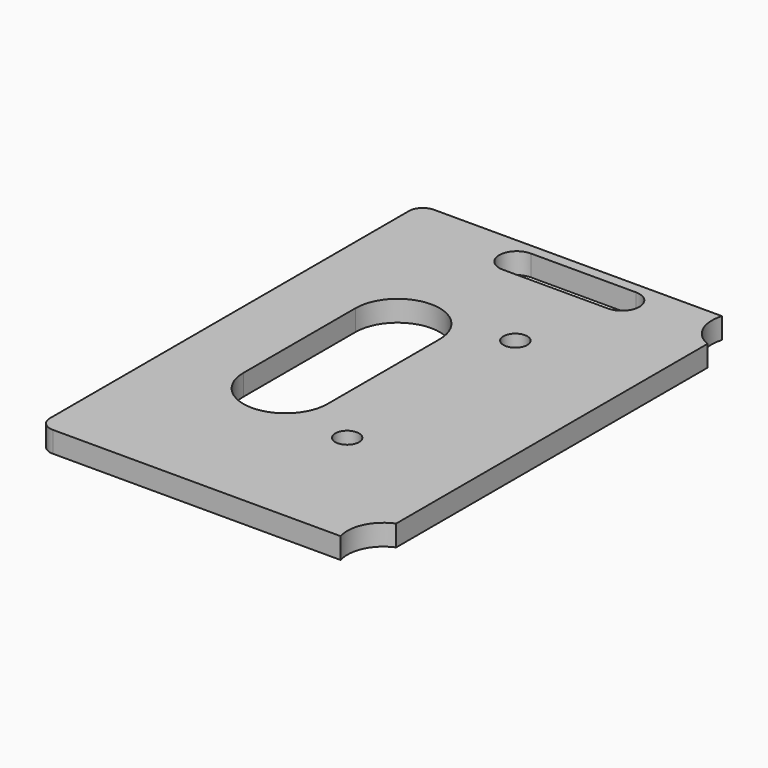
from build123d import *

# Parameters (mm, degrees)
SKETCH035_W     = 46
SKETCH035_H     = 68
PAD010_DEPTH    = 3
FILLET006_R     = 2
SKETCH036_R     = 1.7
POCKET028_DEPTH = 167.305595
POCKET035_DEPTH = 3.001
SKETCH062_R     = 5.15
POCKET043_DEPTH = 167.305595
POCKET044_DEPTH = 3.001


with BuildPart() as part:
    # Sketch035 (on Face1 of CopyMirrored) → Pad010 (new body)
    with BuildSketch(Plane(origin=(0, 0, 45), x_dir=(1, 0, 0), z_dir=(0, 0, -1))):
        with Locations((-21, 0)):
            Rectangle(SKETCH035_W, SKETCH035_H)
    extrude(amount=PAD010_DEPTH)

    # Fillet006
    fillet006_edges = [part.edges().sort_by_distance(p)[0] for p in [
        (-44, -34, 43.5),
        (-44, 34, 43.5),
    ]]
    fillet(fillet006_edges, radius=FILLET006_R)

    # Sketch036 (on Face5 of Fillet006) → Pocket028 (cut, through all)
    with BuildSketch(Plane(origin=(0, 0, 42), x_dir=(1, 0, 0), z_dir=(0, 0, -1))):
        with Locations((-15.2, 15)):
            Circle(SKETCH036_R)
    pocket028 = extrude(amount=-POCKET028_DEPTH, mode=Mode.SUBTRACT)

    # Sketch051 → Pocket035 (cut, through all)
    with BuildSketch(Plane.XY.offset(45)):
        with BuildLine():
            ThreePointArc((-27, 32.5), (-29.5, 30), (-27, 27.5))
            Line((-27, 27.5), (-12, 27.5))
            ThreePointArc((-12, 27.5), (-9.5, 30), (-12, 32.5))
            Line((-27, 32.5), (-12, 32.5))
        make_face()
    extrude(amount=-POCKET035_DEPTH, mode=Mode.SUBTRACT)

    # Sketch062 (on Face5 of Pocket035) → Pocket043 (cut, through all)
    with BuildSketch(Plane(origin=(0, 0, 42), x_dir=(1, 0, 0), z_dir=(0, 0, -1))):
        with Locations((4, 32.5)):
            Circle(SKETCH062_R)
    pocket043 = extrude(amount=-POCKET043_DEPTH, mode=Mode.SUBTRACT)

    # Mirrored006: Pocket043, Pocket028 across XZ
    add(pocket043.mirror(Plane.XZ), mode=Mode.SUBTRACT)
    add(pocket028.mirror(Plane.XZ), mode=Mode.SUBTRACT)

    # Sketch063 (on Face4 of Mirrored006) → Pocket044 (cut, through all)
    with BuildSketch(Plane(origin=(0, 0, 42), x_dir=(1, 0, 0), z_dir=(0, 0, -1))):
        with BuildLine():
            ThreePointArc((-22, 10), (-28, 16), (-34, 10))
            Line((-34, 10), (-34, -10))
            ThreePointArc((-34, -10), (-28, -16), (-22, -10))
            Line((-22, 10), (-22, -10))
        make_face()
    extrude(amount=-POCKET044_DEPTH, mode=Mode.SUBTRACT)


solid = part.part
